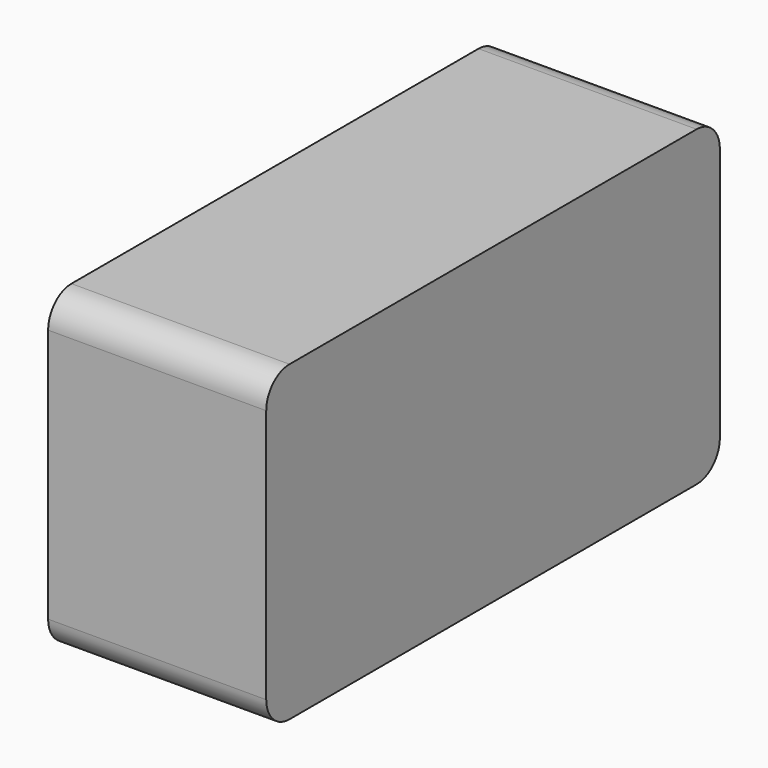
from build123d import *

# Parameters (mm, degrees)
PAD_DEPTH = 30


with BuildPart() as part:
    # Sketch → Pad (new body)
    with BuildSketch(Plane.YZ):
        with BuildLine():
            Line((-35, 21.5), (35, 21.5))
            ThreePointArc((39, 17.5), (37.828427, 20.328427), (35, 21.5))
            Line((39, 17.5), (39, -17.5))
            ThreePointArc((35, -21.5), (37.828427, -20.328427), (39, -17.5))
            Line((35, -21.5), (-35, -21.5))
            ThreePointArc((-39, -17.5), (-37.828427, -20.328427), (-35, -21.5))
            Line((-39, -17.5), (-39, 17.5))
            ThreePointArc((-35, 21.5), (-37.828427, 20.328427), (-39, 17.5))
        make_face()
    extrude(amount=PAD_DEPTH)


solid = part.part
